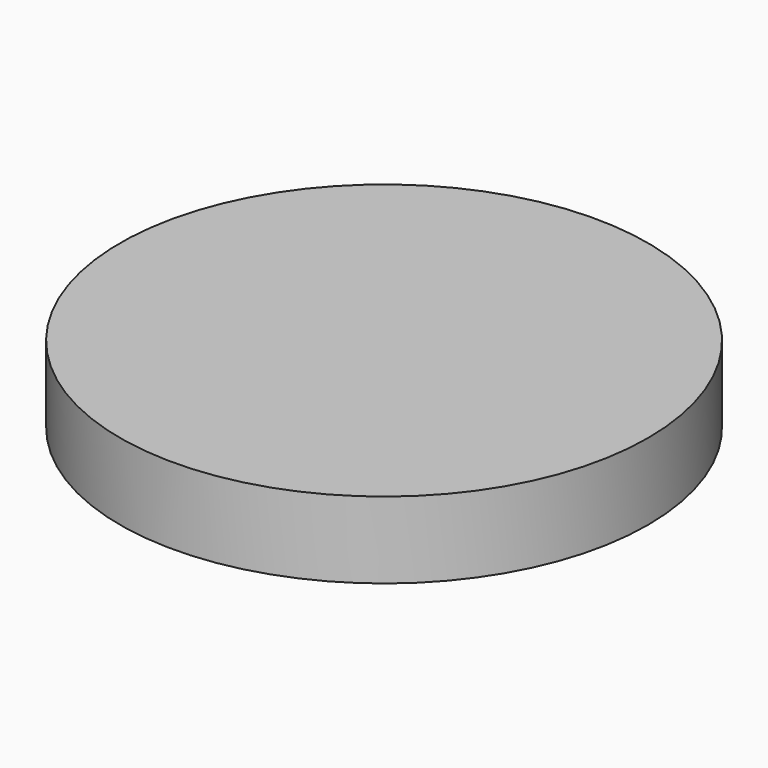
from build123d import *

# Parameters (mm, degrees)
SKETCH_R  = 6.9
PAD_DEPTH = 2


with BuildPart() as part:
    # Sketch → Pad (new body)
    with BuildSketch(Plane.XY):
        Circle(SKETCH_R)
    extrude(amount=PAD_DEPTH)


solid = part.part
